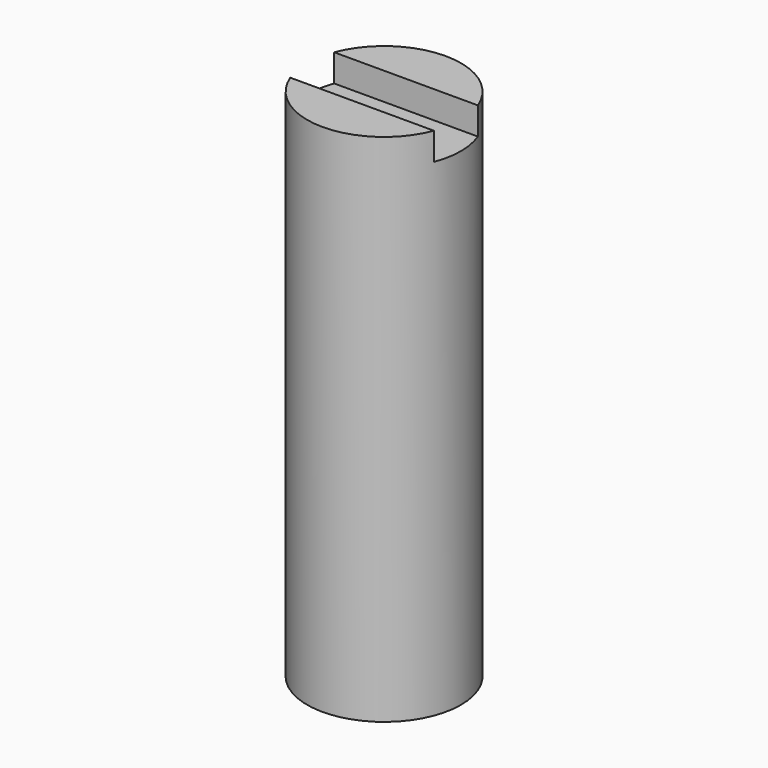
from build123d import *

# Parameters (mm, degrees)
F0_R     = 1.4224
F1_DEPTH = 9.525
F5_DEPTH = 0.508


with BuildPart() as f1:
    # F0 (on Top) → F1 (new body)
    with BuildSketch(Plane.XY):
        Circle(F0_R)
    extrude(amount=F1_DEPTH)

    # F2 (on Front) → F3 (revolve, cut)
    with BuildSketch(Plane.XZ):
        with BuildLine():
            Line((0, 1.524), (0, 0))
            Line((0, 0), (1.016, 0))
            Line((1.016, 0), (1.016, 0.508))
            ThreePointArc((1.016, 0.508), (0.71842, 1.22642), (0, 1.524))
        make_face()
    revolve(axis=Axis((0, 0, 0), (0, 0, -1)), mode=Mode.SUBTRACT)

    # F4 (on face) → F5 (cut)
    with BuildSketch(Plane.XY.offset(9.525)):
        Polygon((1.963537, 0.508), (0, 0.508), (-1.963537, 0.508), (-1.963537, -0.508), (0, -0.508), (1.963537, -0.508), align=None)
    extrude(amount=-F5_DEPTH, mode=Mode.SUBTRACT)


solid = f1.part
